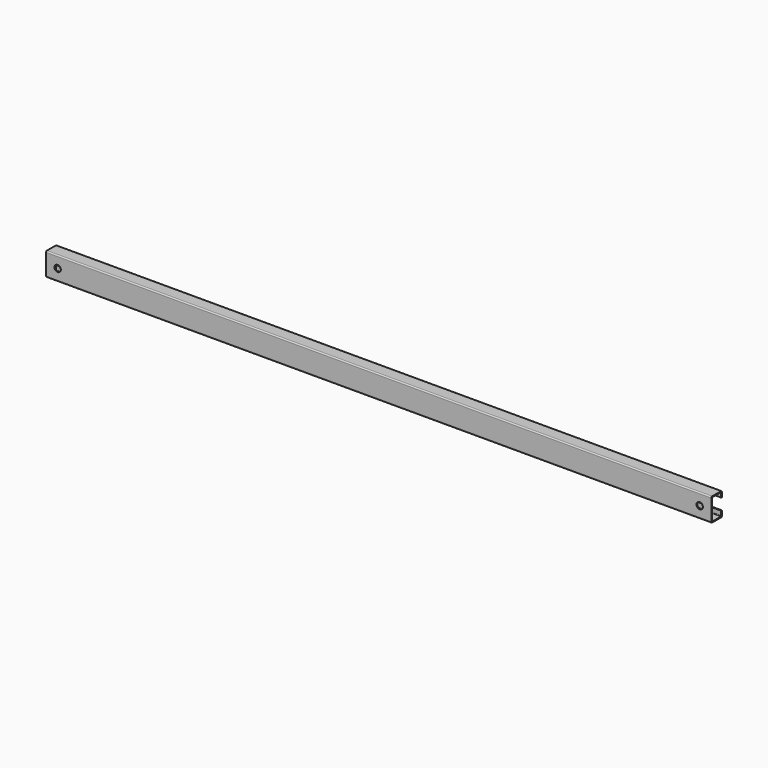
from build123d import *

# Parameters (mm, degrees)
F1_DEPTH = 1149.7084
F3_D     = 11


with BuildPart() as f1:
    # F0 (on Right) → F1 (new body)
    with BuildSketch(Plane.YZ):
        with BuildLine():
            ThreePointArc((11.35, 18.857143), (10.764214, 20.271356), (9.35, 20.857143))
            Line((9.35, 20.857143), (-9.65, 20.857143))
            ThreePointArc((-9.65, 20.857143), (-11.064214, 20.271356), (-11.65, 18.857143))
            Line((-11.65, 18.857143), (-11.65, -17.142857))
            ThreePointArc((-11.65, -17.142857), (-11.064214, -18.557071), (-9.65, -19.142857))
            Line((-9.65, -19.142857), (9.35, -19.142857))
            ThreePointArc((9.35, -19.142857), (10.764214, -18.557071), (11.35, -17.142857))
            Line((11.35, -17.142857), (11.35, -9.142857))
            Line((11.35, -9.142857), (9.85, -9.142857))
            Line((9.85, -9.142857), (9.85, -16.642857))
            ThreePointArc((9.85, -16.642857), (9.557107, -17.349964), (8.85, -17.642857))
            Line((8.85, -17.642857), (-9.15, -17.642857))
            ThreePointArc((-9.15, -17.642857), (-9.857107, -17.349964), (-10.15, -16.642857))
            Line((-10.15, -16.642857), (-10.15, 18.357143))
            ThreePointArc((-10.15, 18.357143), (-9.857107, 19.06425), (-9.15, 19.357143))
            Line((-9.15, 19.357143), (8.85, 19.357143))
            ThreePointArc((8.85, 19.357143), (9.557107, 19.06425), (9.85, 18.357143))
            Line((9.85, 18.357143), (9.85, 10.857143))
            Line((9.85, 10.857143), (11.35, 10.857143))
            Line((11.35, 10.857143), (11.35, 18.857143))
        make_face()
    extrude(amount=F1_DEPTH)

    # F3 (through all)
    with Locations(Plane.XZ.offset(11.65)):
        with Locations((20, 0.857143), (1129.7084, 0.857143)):
            Hole(F3_D / 2)


solid = f1.part
